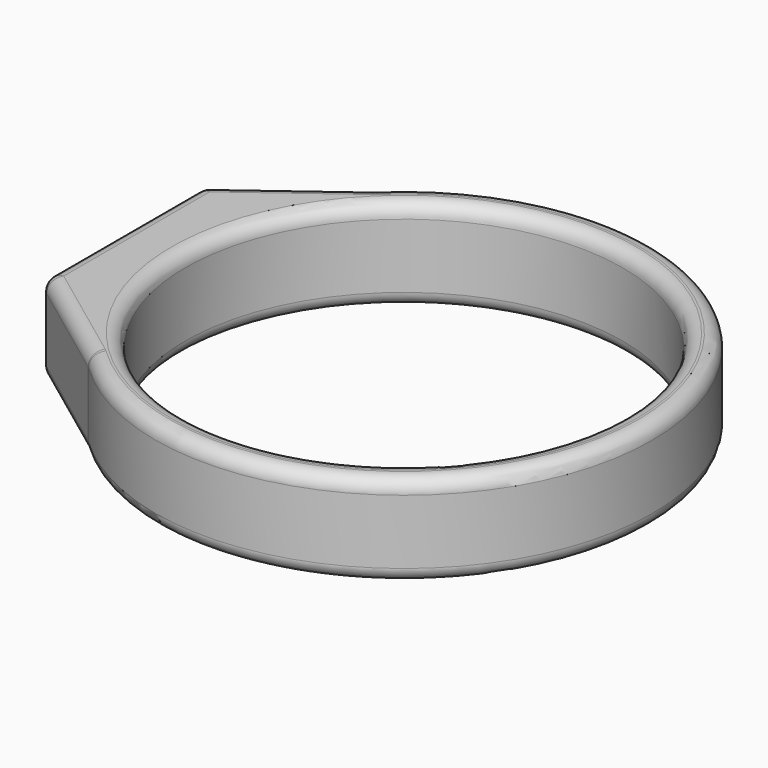
from build123d import *

# Parameters (mm, degrees)
F0_R     = 10.7945636434
F0_R_2   = 9.5
F1_DEPTH = 4
F2_W     = 2.2937387829
F2_H     = 8.5183947237
F3_DEPTH = 4
F4_R     = 0.6


with BuildPart() as f1:
    # F0 (on Top) → F1 (new body)
    with BuildSketch(Plane.XY):
        with Locations((-12.9060586914, -22.1966579556)):
            Circle(F0_R)
        with Locations((-12.9060586914, -22.1966579556)):
            Circle(F0_R_2, mode=Mode.SUBTRACT)
    extrude(amount=F1_DEPTH)

    # F2 (on face) → F3 (join)
    with BuildSketch(Plane.XY.offset(4)):
        with Locations((-23.9716902075, -22.1966579556)):
            Rectangle(F2_W, F2_H)
        Polygon((-25.1185595989, -17.9374605938), (-22.824820816, -17.9374605938), (-18.1995894648, -12.7891537062), align=None)
        Polygon((-18.1995894648, -31.6041622051), (-22.824820816, -26.4558553175), (-25.1185595989, -26.4558553175), align=None)
    extrude(amount=-F3_DEPTH)

    # F4
    f4_edges = [f1.edges().sort_by_distance(p)[0] for p in [
        (-2.111495, -22.196658, 4),
        (-2.111495, -22.196658, 0),
        (-22.75742, -28.212746, 0),
        (-25.11856, -22.196658, 4),
        (-22.75742, -16.18057, 4),
        (-25.11856, -22.196658, 0),
        (-22.75742, -16.18057, 0),
        (-22.406059, -22.196658, 4),
        (-22.406059, -22.196658, 0),
        (-25.11856, -26.455855, 2),
        (-25.11856, -17.937461, 2),
        (-20.39628, -14.42368, 2),
        (-20.39628, -29.969636, 2),
        (-22.75742, -28.212746, 4),
    ]]
    fillet(f4_edges, radius=F4_R)


solid = f1.part
